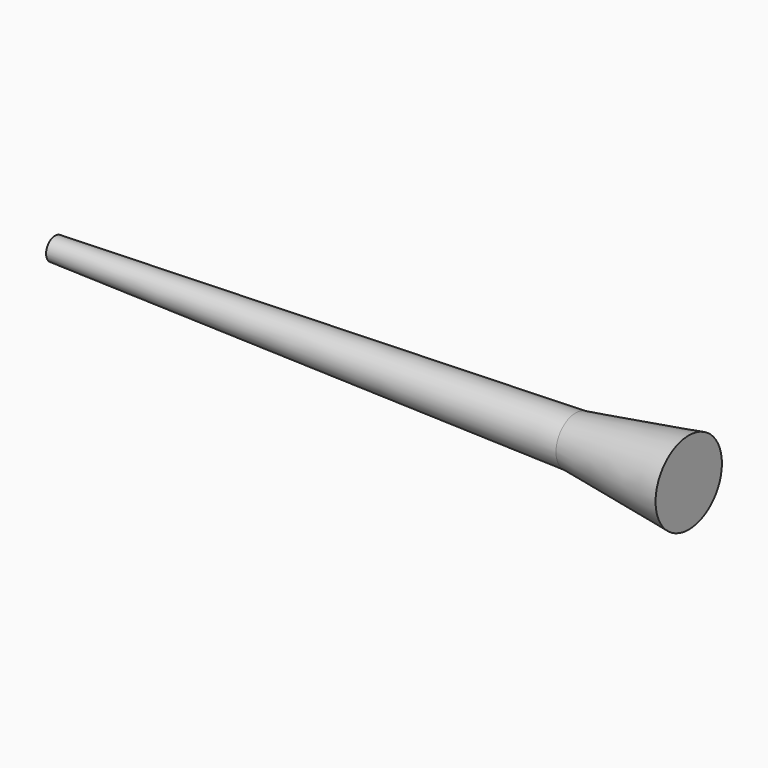
from build123d import *


with BuildPart() as f1:
    # F0 (on Top) → F1 (revolve)
    with BuildSketch(Plane.XY):
        Polygon((-94.049255, 3), (-94.049255, 0), (43.950745, 0), (43.950745, 6.5), align=None)
        Polygon((43.950745, 6.5), (43.950745, 0), (73.950745, 0), (73.950745, 11), align=None)
    revolve(axis=Axis((-7.657569, 0, 0), (1, 0, 0)))


solid = f1.part
